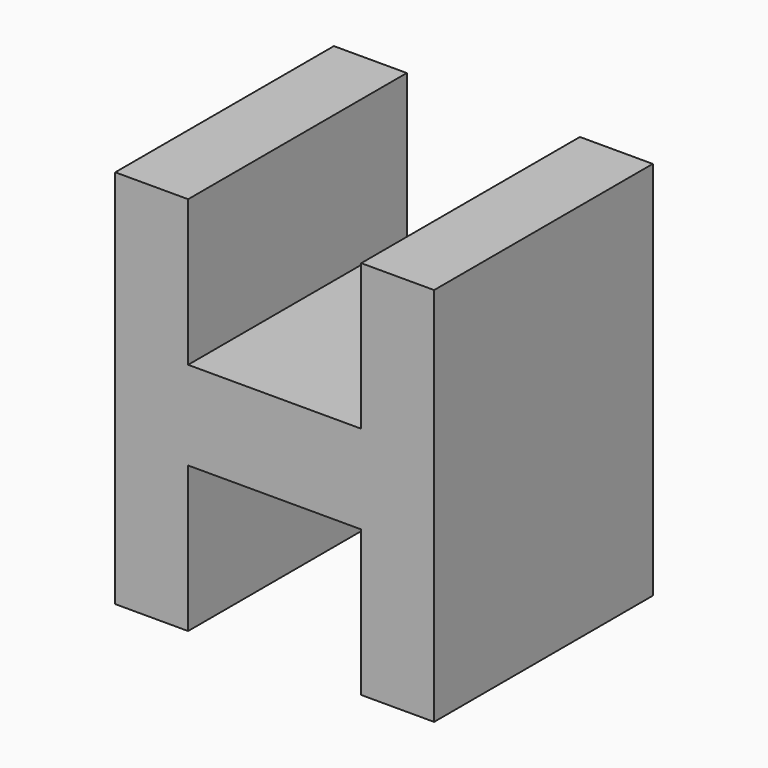
from build123d import *

# Parameters (mm, degrees)
F0_W     = 5.08
F0_H     = 10.16
F1_DEPTH = 19.05


with BuildPart() as f1:
    # F0 (on Front) → F1 (new body)
    with BuildSketch(Plane.XZ):
        with Locations((-8.5725, -8.168924)):
            Rectangle(F0_W, F0_H)
        with Locations((8.5725, -8.168924)):
            Rectangle(F0_W, F0_H)
        with Locations((-8.5725, 8.168924)):
            Rectangle(F0_W, F0_H)
        Polygon((-6.0325, 3.088924), (-11.1125, 3.088924), (-11.1125, -3.088924), (-6.0325, -3.088924), (6.0325, -3.088924), (11.1125, -3.088924), (11.1125, 3.088924), (6.0325, 3.088924), align=None)
        with Locations((8.5725, 8.168924)):
            Rectangle(F0_W, F0_H)
    extrude(amount=F1_DEPTH)


solid = f1.part
